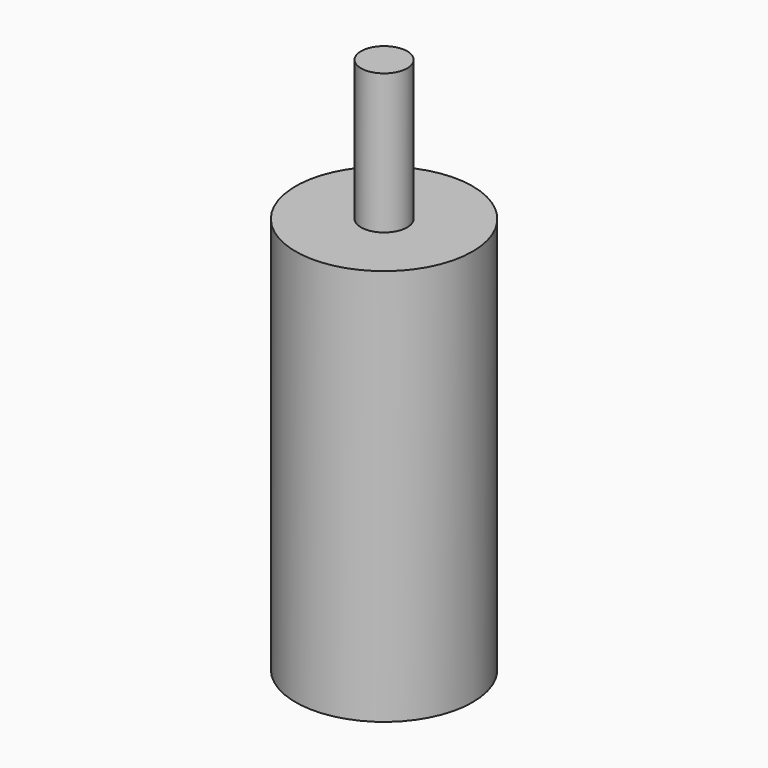
from build123d import *

# Parameters (mm, degrees)
F0_R     = 18.95
F1_DEPTH = 42.5
F4_R     = 4.95
F5_DEPTH = 85
F6_R     = 4.95
F7_DEPTH = 115


with BuildPart() as f1:
    # F0 (on Top) → F1 (new body, symmetric)
    with BuildSketch(Plane.XY):
        Circle(F0_R)
    extrude(amount=F1_DEPTH, both=True)

    # F4 (on face) → F5 (cut, through all)
    with BuildSketch(Plane(origin=(0, 0, -42.5), x_dir=(1, 0, 0), z_dir=(0, 0, -1))):
        Circle(F4_R)
    extrude(amount=-F5_DEPTH, mode=Mode.SUBTRACT)


with BuildPart() as f7:
    # F6 (on face) → F7 (new body)
    with BuildSketch(Plane(origin=(0, 0, -42.5), x_dir=(1, 0, 0), z_dir=(0, 0, -1))):
        Circle(F6_R)
    extrude(amount=-F7_DEPTH)


solid = Compound([f1.part, f7.part])
